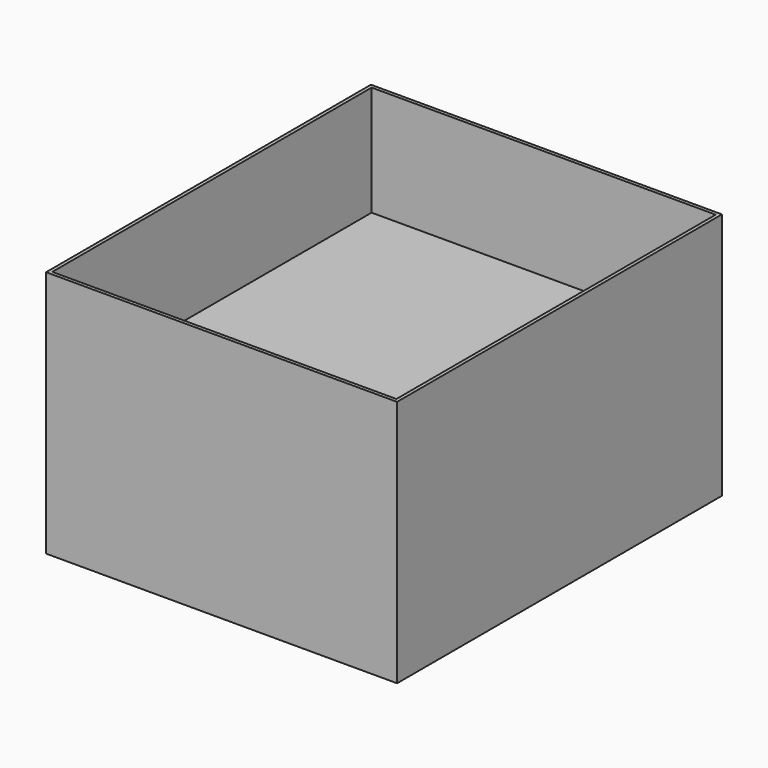
from build123d import *

# Parameters (mm, degrees)
F0_W     = 647.7
F0_H     = 749.3
F0_W_2   = 635
F0_H_2   = 736.6
F1_DEPTH = 457.2
F2_W     = 635
F2_H     = 736.6
F3_DEPTH = 254


with BuildPart() as f1:
    # F0 (on Top) → F1 (new body)
    with BuildSketch(Plane.XY):
        Rectangle(F0_W, F0_H)
        Rectangle(F0_W_2, F0_H_2, mode=Mode.SUBTRACT)
    extrude(amount=F1_DEPTH)


with BuildPart() as f3:
    # F2 (on Top) → F3 (new body)
    with BuildSketch(Plane.XY):
        Rectangle(F2_W, F2_H)
    extrude(amount=F3_DEPTH)


solid = Compound([f1.part, f3.part])
